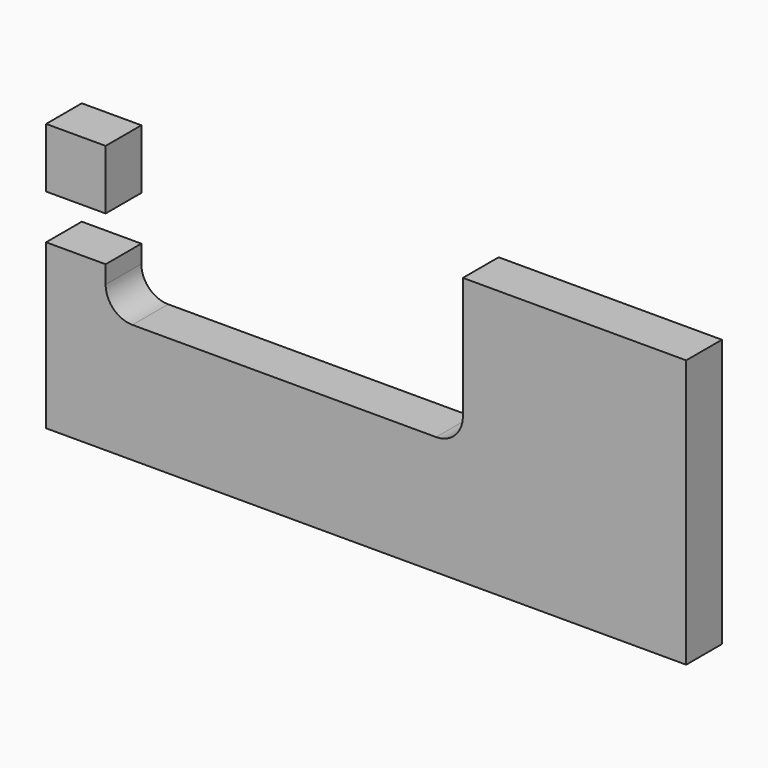
from build123d import *

# Parameters (mm, degrees)
F0_W     = 273.05
F0_H     = 114.3
F1_DEPTH = 19.05
F2_W     = 25.4
F2_H     = 19.05
F3_DEPTH = 25.4


with BuildPart() as f1:
    # F0 (on Front) → F1 (new body)
    with BuildSketch(Plane.XZ):
        with Locations((136.525, 57.15)):
            Rectangle(F0_W, F0_H)
    extrude(amount=F1_DEPTH)

    # F2 (on face) → F3 (cut)
    with BuildSketch(Plane.XZ.offset(19.05)):
        with Locations((12.7, 79.375)):
            Rectangle(F2_W, F2_H)
        with BuildLine():
            Line((25.4, 114.3), (25.4, 88.9))
            Line((25.4, 88.9), (25.4, 69.85))
            Line((25.4, 69.85), (25.4, 62.23))
            ThreePointArc((25.4, 62.23), (28.747769, 54.147769), (36.83, 50.8))
            Line((36.83, 50.8), (166.37, 50.8))
            ThreePointArc((166.37, 50.8), (174.452231, 54.147769), (177.8, 62.23))
            Line((177.8, 62.23), (177.8, 114.3))
            Line((177.8, 114.3), (25.4, 114.3))
        make_face()
    extrude(amount=-F3_DEPTH, mode=Mode.SUBTRACT)


solid = f1.part
